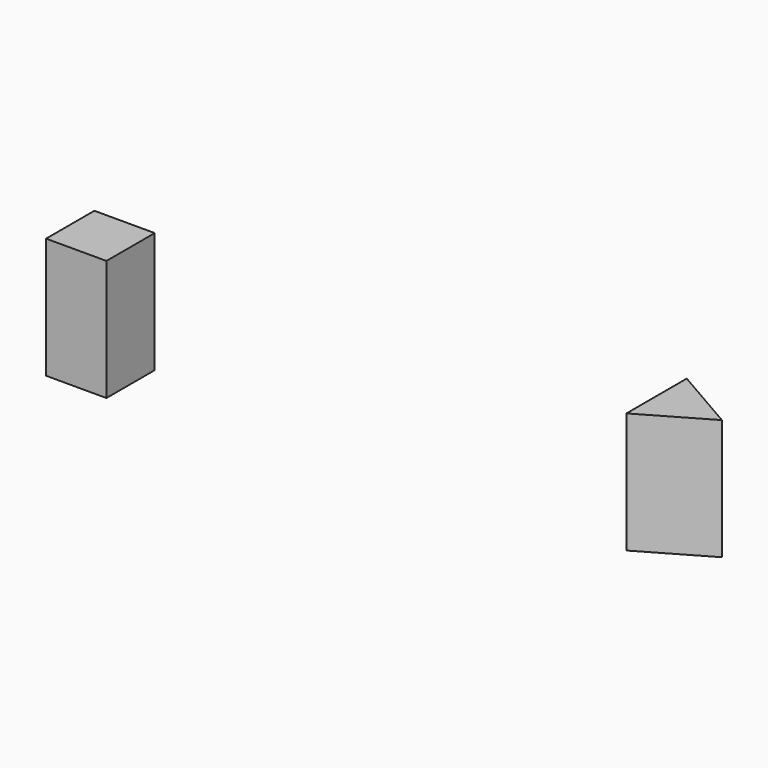
from build123d import *

# Parameters (mm, degrees)
F0_W     = 20
F0_H     = 20
F1_DEPTH = 40
F3_DEPTH = 40


with BuildPart() as f1:
    # F0 (on Top) → F1 (new body)
    with BuildSketch(Plane.XY):
        with Locations((-147.978462, 3.310686)):
            Rectangle(F0_W, F0_H)
    extrude(amount=F1_DEPTH)


with BuildPart() as f3:
    # F2 (on Top) → F3 (new body)
    with BuildSketch(Plane.XY):
        Polygon((20.446657, 10.642594), (42.097292, 23.142594), (20.446657, 35.642594), align=None)
    extrude(amount=F3_DEPTH)


solid = Compound([f1.part, f3.part])
